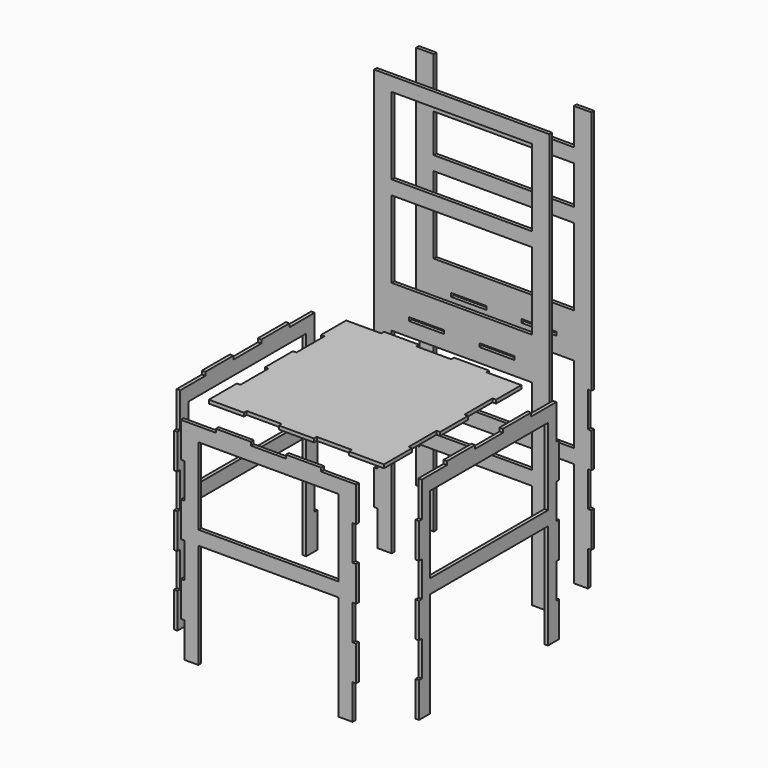
from build123d import *

# Parameters (mm, degrees)
PAD_DEPTH     = 1
SKETCH001_W   = 40
SKETCH001_H   = 22
PAD001_DEPTH  = 1
SKETCH002_W   = 42.000034
SKETCH002_H   = 22
PAD002_DEPTH  = 1
SKETCH003_W   = 40
SKETCH003_H   = 22
SKETCH003_W_2 = 10
SKETCH003_H_2 = 1
PAD003_DEPTH  = 1
SKETCH004_W   = 40
SKETCH004_H   = 22
SKETCH004_H_2 = 11
SKETCH004_W_2 = 10
SKETCH004_H_3 = 1
PAD004_DEPTH  = 1


with BuildPart() as seat:
    # Sketch → Pad (new body)
    with BuildSketch(Plane.XY):
        Polygon((-25, 24), (-15, 24), (-15, 25), (-5, 25), (-5, 24), (5, 24), (5, 25), (15, 25), (15, 24), (25, 24), (25, 15), (24, 15), (24, 5), (25, 5), (25, -5), (24, -5), (24, -15), (25, -15), (25, -25), (15, -25), (15, -24), (5, -24), (5, -25), (-5, -25), (-5, -24), (-15, -24), (-15, -25), (-25, -25), (-25, -15), (-24, -15), (-24, -5), (-25, -5), (-25, 5), (-24, 5), (-24, 15), (-25, 15), align=None)
    extrude(amount=PAD_DEPTH)


with BuildPart() as front:
    # Sketch001 → Pad001 (new body)
    with BuildSketch(Plane.XZ.offset(34)):
        Polygon((-25, 0), (-15, 0), (-15, 1), (-5, 1), (-5, 0), (5, 0), (5, 1), (15, 1), (15, 0), (25, 0), (25, -10), (24, -10), (24, -20), (25, -20), (25, -30), (24, -30), (24, -40), (25, -40), (25, -50), (24, -50), (24, -60), (20, -60), (20, -30), (-20, -30), (-20, -60), (-24, -60), (-24, -50), (-25, -50), (-25, -40), (-24, -40), (-24, -30), (-25, -30), (-25, -20), (-24, -20), (-24, -10), (-25, -10), align=None)
        with Locations((0, -15)):
            Rectangle(SKETCH001_W, SKETCH001_H, mode=Mode.SUBTRACT)
    extrude(amount=PAD001_DEPTH)


with BuildPart() as right:
    # Sketch002 → Pad002 (new body)
    with BuildSketch(Plane.YZ.offset(34)):
        Polygon((-23.999983, -10), (-23.999983, 0), (-14.999983, 0), (-14.999983, 1), (-4.999983, 1), (-4.999983, 0), (5.000017, 0), (5.000017, 1), (15.000017, 1), (15.000017, 0), (24.000017, 0), (24.000017, -10), (25.000017, -10), (25.000017, -20), (24.000017, -20), (24.000017, -30), (25.000017, -30), (25.000017, -40), (24.000017, -40), (24.000017, -50), (25.000017, -50), (25.000017, -60), (21.000017, -60), (21.000017, -30), (-21.000017, -30), (-21.000017, -60), (-25.000017, -60), (-25.000017, -50), (-24.000017, -50), (-24.000017, -40), (-25.000017, -40), (-25.000017, -30), (-24.000017, -30), (-24.000017, -20), (-25.000017, -20), (-24.999983, -10), align=None)
        with Locations((0, -15)):
            Rectangle(SKETCH002_W, SKETCH002_H, mode=Mode.SUBTRACT)
    extrude(amount=PAD002_DEPTH)


with BuildPart() as left:
    # Clone base: copy of right
    add(right.part)


with BuildPart() as left_1:
    # Clone placement: moved
    add(left.part.moved(Location((-69, 0, 0))))


with BuildPart() as back1:
    # Sketch003 → Pad003 (new body)
    with BuildSketch(Plane.XZ.offset(-35)):
        Polygon((-25, 0), (-25, 60), (25, 60), (25, 0), (25, -10), (24, -10), (24, -20), (25, -20), (25, -30), (24, -30), (24, -40), (25, -40), (25, -50), (24, -50), (24, -60), (20, -60), (20, -30), (-20, -30), (-20, -60), (-24, -60), (-24, -50), (-25, -50), (-25, -40), (-24, -40), (-24, -30), (-25, -30), (-25, -20), (-24, -20), (-24, -10), (-25, -10), align=None)
        with Locations((0, -15)):
            Rectangle(SKETCH003_W, SKETCH003_H, mode=Mode.SUBTRACT)
        with Locations((0, 19)):
            Rectangle(SKETCH003_W, SKETCH003_H, mode=Mode.SUBTRACT)
        with Locations((0, 45)):
            Rectangle(SKETCH003_W, SKETCH003_H, mode=Mode.SUBTRACT)
        with Locations((-10, 0.5)):
            Rectangle(SKETCH003_W_2, SKETCH003_H_2, mode=Mode.SUBTRACT)
        with Locations((10, 0.5)):
            Rectangle(SKETCH003_W_2, SKETCH003_H_2, mode=Mode.SUBTRACT)
    extrude(amount=PAD003_DEPTH)


with BuildPart() as back2:
    # Sketch004 → Pad004 (new body)
    with BuildSketch(Plane.XZ.offset(-50)):
        Polygon((-25, -0.607968), (-25, 59.392032), (-20, 59.392032), (-20, 49), (20, 49), (20, 59.392032), (25, 59.392032), (25, -0.607968), (25, -10.607968), (24, -10.607968), (24, -20.607968), (25, -20.607968), (25, -30.607968), (24, -30.607968), (24, -40.607968), (25, -40.607968), (25, -50.607968), (24, -50.607968), (24, -60.607968), (20, -60.607968), (20, -30.607968), (-20, -30.607968), (-20, -60.607968), (-24, -60.607968), (-24, -50.607968), (-25, -50.607968), (-25, -40.607968), (-24, -40.607968), (-24, -30.607968), (-25, -30.607968), (-25, -20.607968), (-24, -20.607968), (-24, -10.607968), (-25, -10.607968), align=None)
        with Locations((0, -15.607968)):
            Rectangle(SKETCH004_W, SKETCH004_H, mode=Mode.SUBTRACT)
        with Locations((0, 19)):
            Rectangle(SKETCH004_W, SKETCH004_H, mode=Mode.SUBTRACT)
        with Locations((0, 39.5)):
            Rectangle(SKETCH004_W, SKETCH004_H_2, mode=Mode.SUBTRACT)
        with Locations((-10, 0.5)):
            Rectangle(SKETCH004_W_2, SKETCH004_H_3, mode=Mode.SUBTRACT)
        with Locations((10, 0.5)):
            Rectangle(SKETCH004_W_2, SKETCH004_H_3, mode=Mode.SUBTRACT)
    extrude(amount=PAD004_DEPTH)


solid = Compound([seat.part, front.part, right.part, left_1.part, back1.part, back2.part])
